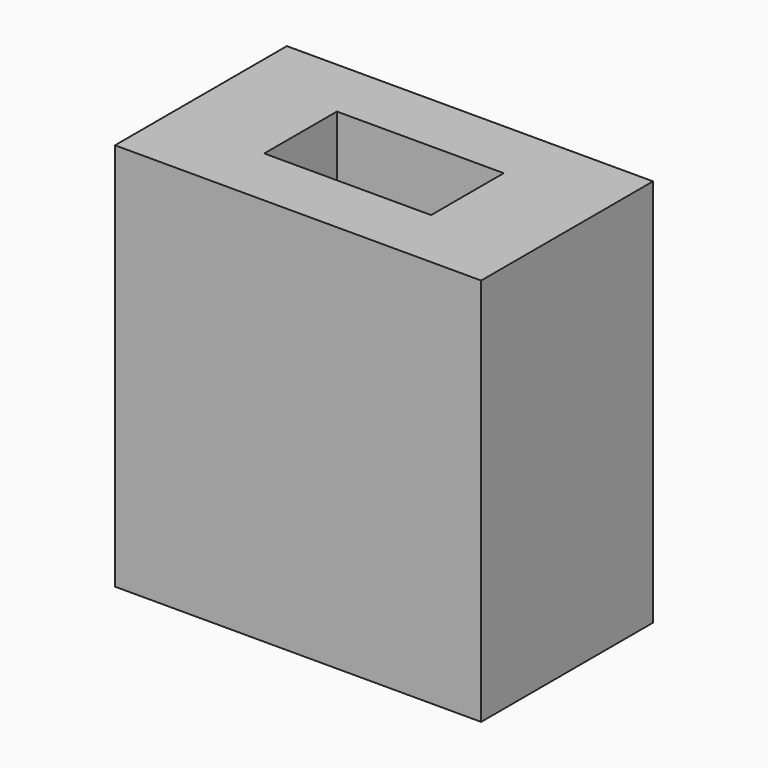
from build123d import *

# Parameters (mm, degrees)
F0_W      = 95.741764
F0_H      = 56.171074
F1_DEPTH  = 76.2
F1_FACE_W = 95.741764
F1_FACE_H = 56.171074
F2_DEPTH  = 25.4
F3_W      = 43.624266
F3_H      = 23.742414
F4_DEPTH  = 25.4


with BuildPart() as f1:
    # F0 (on Top) → F1 (new body)
    with BuildSketch(Plane.XY):
        Rectangle(F0_W, F0_H)
        Rectangle(F0_W, F0_H)
    extrude(amount=F1_DEPTH)

    # F1_face (on face) → F2 (join)
    with BuildSketch(Plane.XY.offset(76.2)):
        Rectangle(F1_FACE_W, F1_FACE_H)
    extrude(amount=F2_DEPTH)

    # F3 (on face) → F4 (cut)
    with BuildSketch(Plane.XY.offset(101.6)):
        Rectangle(F3_W, F3_H)
    extrude(amount=-F4_DEPTH, mode=Mode.SUBTRACT)


solid = f1.part
